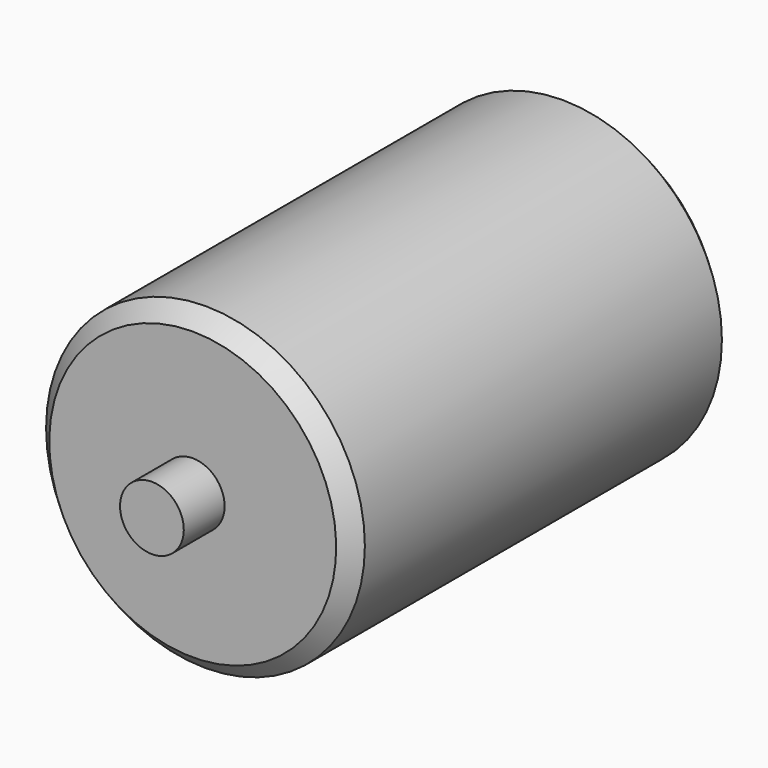
from build123d import *

# Parameters (mm, degrees)
F0_W     = 16
F0_H     = 10
F2_SIZE2 = 5
F2_SIZE  = 5


with BuildPart() as f1:
    # F0 (on Right) → F1 (revolve)
    with BuildSketch(Plane.YZ):
        with Locations((-81.681158, 5)):
            Rectangle(F0_W, F0_H)
        Polygon((-73.681158, 10), (-73.681158, 0), (76.318842, 0), (76.318842, 10), (76.318842, 50), (-73.681158, 50), align=None)
        with Locations((84.318842, 5)):
            Rectangle(F0_W, F0_H)
    revolve(axis=Axis((0, 1.318842, 0), (0, 1, 0)))

    # F2
    f2_edges = [f1.edges().sort_by_distance(p)[0] for p in [
        (0, -73.681158, -50),
        (0, 76.318842, -50),
    ]]
    chamfer(f2_edges, length=F2_SIZE, length2=F2_SIZE2)


solid = f1.part
